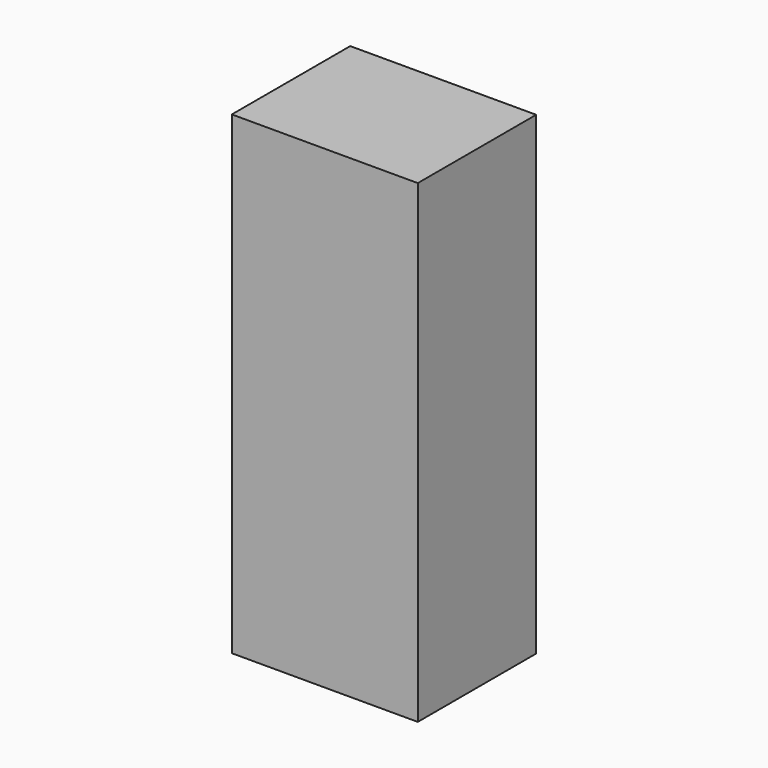
from build123d import *

# Parameters (mm, degrees)
F0_W     = 24.892
F0_H     = 19.812
F1_DEPTH = 31.75
F2_R     = 3.81
F3_DEPTH = 38.1


with BuildPart() as f1:
    # F0 (on Top) → F1 (new body, symmetric)
    with BuildSketch(Plane.XY):
        Rectangle(F0_W, F0_H)
    extrude(amount=F1_DEPTH, both=True)

    # F2 (on face) → F3 (cut)
    with BuildSketch(Plane(origin=(0, 0, -31.75), x_dir=(1, 0, 0), z_dir=(0, 0, -1))):
        Circle(F2_R)
    extrude(amount=-F3_DEPTH, mode=Mode.SUBTRACT)


solid = f1.part
